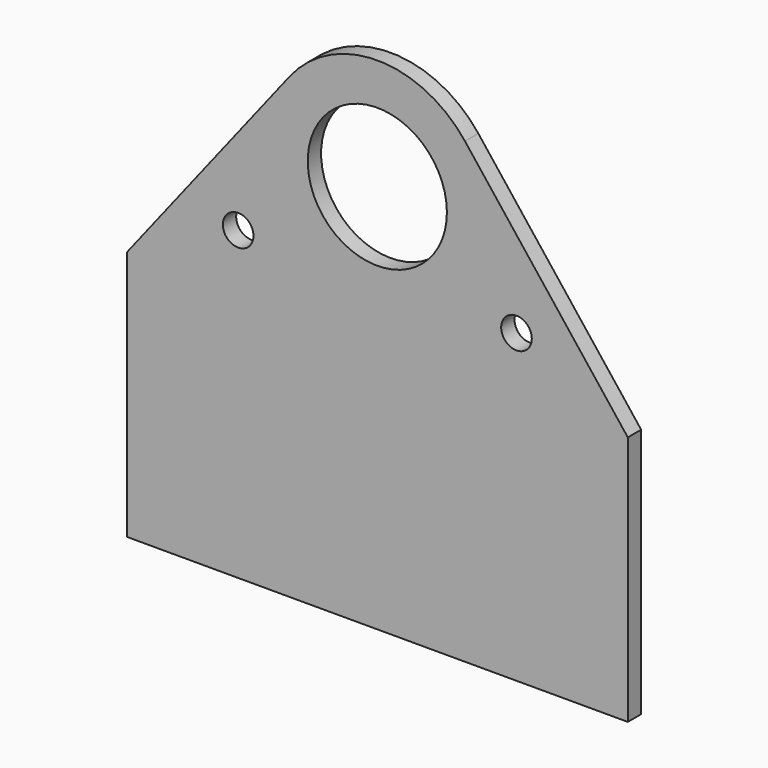
from build123d import *

# Parameters (mm, degrees)
F0_R     = 2.75
F0_R_2   = 12.5
F1_DEPTH = 3


with BuildPart() as f1:
    # F0 (on Front) → F1 (new body)
    with BuildSketch(Plane.XZ):
        with BuildLine():
            Line((45, -25), (15.742295, 12.336131))
            ThreePointArc((15.742295, 12.336131), (0, 20), (-15.742295, 12.336131))
            Line((-15.742295, 12.336131), (-45, -25))
            Line((-45, -25), (-45, -70))
            Line((-45, -70), (45, -70))
            Line((45, -70), (45, -25))
        make_face()
        with Locations((-25, -15)):
            Circle(F0_R, mode=Mode.SUBTRACT)
        with Locations((25, -15)):
            Circle(F0_R, mode=Mode.SUBTRACT)
        Circle(F0_R_2, mode=Mode.SUBTRACT)
    extrude(amount=F1_DEPTH)


solid = f1.part
